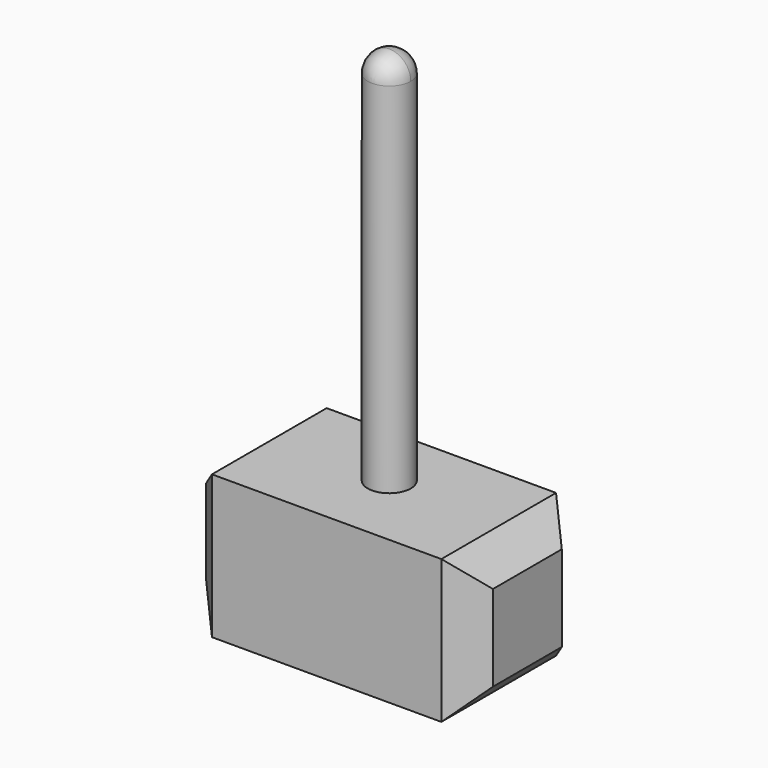
from build123d import *

# Parameters (mm, degrees)
F0_W     = 50.8
F0_H     = 25.4
F1_DEPTH = 25.4
F2_R     = 3.81
F3_DEPTH = 63.5
F6_SIZE  = 5.08


with BuildPart() as f1:
    # F0 (on Top) → F1 (new body)
    with BuildSketch(Plane.XY):
        with Locations((0, -1.165138)):
            Rectangle(F0_W, F0_H)
    extrude(amount=F1_DEPTH)

    # F2 (on face) → F3 (join)
    with BuildSketch(Plane.XY.offset(25.4)):
        Circle(F2_R)
    extrude(amount=F3_DEPTH)

    # F4 (on face) → F5 (revolve)
    with BuildSketch(Plane.XY.offset(88.9)):
        with BuildLine():
            Line((0, 3.81), (0, -3.81))
            ThreePointArc((0, -3.81), (2.694077, -2.694077), (3.81, 0))
            ThreePointArc((3.81, 0), (2.694077, 2.694077), (0, 3.81))
        make_face()
    revolve(axis=Axis((0, 0, 88.9), (0, -1, 0)))

    # F6
    f6_edges = [f1.edges().sort_by_distance(p)[0] for p in [
        (-25.4, 11.534862, 12.7),
        (-25.4, -1.165138, 25.4),
        (25.4, -1.165138, 25.4),
        (25.4, 11.534862, 12.7),
        (25.4, -1.165138, 0),
        (25.4, -13.865138, 12.7),
        (-25.4, -13.865138, 12.7),
        (-25.4, -1.165138, 0),
    ]]
    chamfer(f6_edges, length=F6_SIZE)


solid = f1.part
